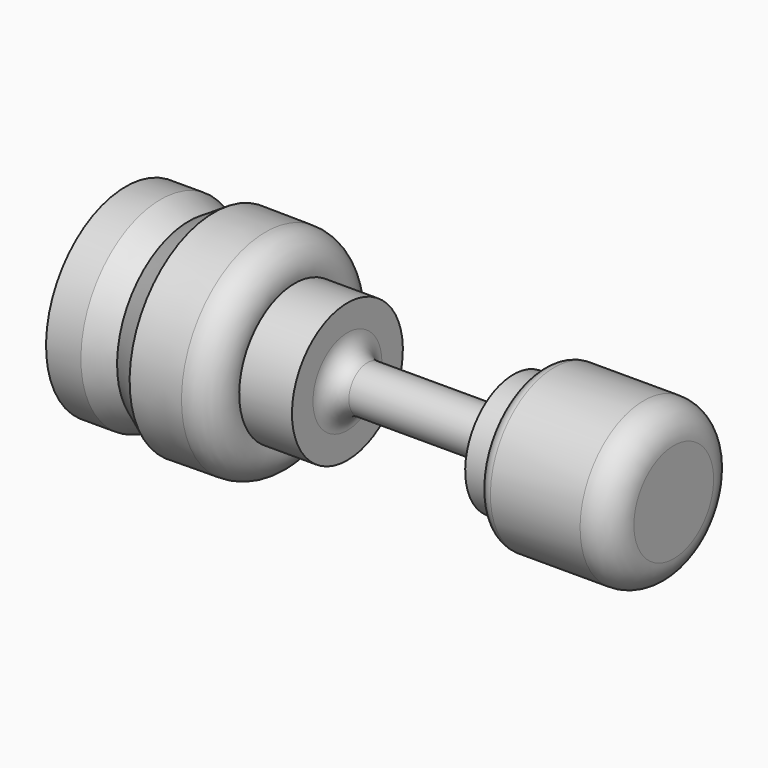
from build123d import *


with BuildPart() as f1:
    # F0 (on Front) → F1 (revolve)
    with BuildSketch(Plane.XZ):
        with BuildLine():
            Line((18.346528, 27.700054), (-36.653472, 27.700054))
            Line((-36.653472, 27.700054), (-36.653472, 17.700054))
            Line((-36.653472, 17.700054), (-33.153472, 17.700054))
            Line((-33.153472, 17.700054), (-30.325044, 18.700054))
            Line((-30.325044, 18.700054), (-27.787418, 17.099912))
            Line((-27.787418, 17.099912), (-22.615651, 17.146254))
            ThreePointArc((-22.615651, 17.146254), (-20.310701, 18.258658), (-19.702867, 20.744775))
            Line((-19.702867, 20.744775), (-14.406299, 20.744775))
            Line((-14.406299, 20.744775), (-14.406299, 23.380167))
            ThreePointArc((-14.406299, 23.380167), (-13.820513, 24.794381), (-12.406299, 25.380167))
            Line((-12.406299, 25.380167), (0.177595, 25.380167))
            ThreePointArc((0.177595, 25.380167), (1.561195, 24.824346), (2.175761, 23.46582))
            Line((2.175761, 23.46582), (2.253501, 21.652222))
            Line((2.253501, 21.652222), (5.253501, 21.652222))
            ThreePointArc((5.253501, 21.652222), (5.227861, 20.355786), (6.346528, 19.700054))
            Line((6.346528, 19.700054), (15.346528, 19.700054))
            ThreePointArc((15.346528, 19.700054), (17.467849, 20.578733), (18.346528, 22.700054))
            Line((18.346528, 22.700054), (18.346528, 27.700054))
        make_face()
    revolve(axis=Axis((-42.259167, 0, 27.700054), (-1, 0, 0)))


solid = f1.part
